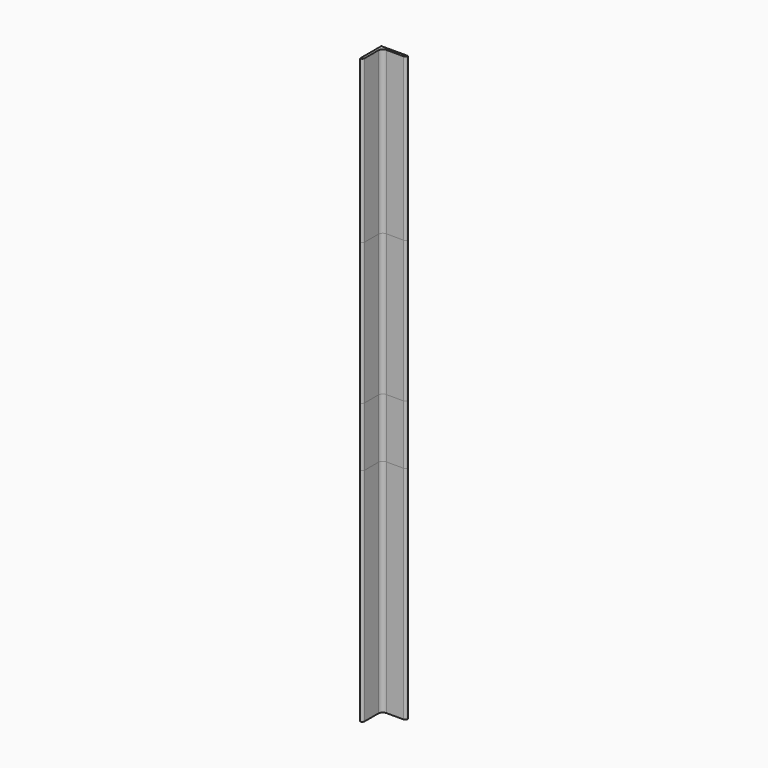
from build123d import *

# Parameters (mm, degrees)
F5_DEPTH = 660
F6_DEPTH = 477
F7_DEPTH = 317
F8_DEPTH = 157
F9_DEPTH = 250


with BuildPart() as f5:
    # F4 (on Top) → F5 (new body)
    with BuildSketch(Plane.XY):
        with BuildLine():
            Line((30, 0), (0, 0))
            Line((0, 0), (0, -30))
            Line((0, -30), (0.5, -30))
            ThreePointArc((0.5, -30), (2.267766953, -29.267766953), (3, -27.5))
            Line((3, -27.5), (3, -8))
            ThreePointArc((3, -8), (4.4644660941, -4.4644660941), (8, -3))
            Line((8, -3), (27.5, -3))
            ThreePointArc((27.5, -3), (29.267766953, -2.267766953), (30, -0.5))
            Line((30, -0.5), (30, 0))
        make_face()
    extrude(amount=F5_DEPTH)


with BuildPart() as f6:
    # F4 (on Top) → F6 (new body)
    with BuildSketch(Plane.XY):
        with BuildLine():
            Line((30, 0), (0, 0))
            Line((0, 0), (0, -30))
            Line((0, -30), (0.5, -30))
            ThreePointArc((0.5, -30), (2.267766953, -29.267766953), (3, -27.5))
            Line((3, -27.5), (3, -8))
            ThreePointArc((3, -8), (4.4644660941, -4.4644660941), (8, -3))
            Line((8, -3), (27.5, -3))
            ThreePointArc((27.5, -3), (29.267766953, -2.267766953), (30, -0.5))
            Line((30, -0.5), (30, 0))
        make_face()
    extrude(amount=F6_DEPTH)


with BuildPart() as f7:
    # F4 (on Top) → F7 (new body)
    with BuildSketch(Plane.XY):
        with BuildLine():
            Line((30, 0), (0, 0))
            Line((0, 0), (0, -30))
            Line((0, -30), (0.5, -30))
            ThreePointArc((0.5, -30), (2.267766953, -29.267766953), (3, -27.5))
            Line((3, -27.5), (3, -8))
            ThreePointArc((3, -8), (4.4644660941, -4.4644660941), (8, -3))
            Line((8, -3), (27.5, -3))
            ThreePointArc((27.5, -3), (29.267766953, -2.267766953), (30, -0.5))
            Line((30, -0.5), (30, 0))
        make_face()
    extrude(amount=F7_DEPTH)


with BuildPart() as f8:
    # F4 (on Top) → F8 (new body)
    with BuildSketch(Plane.XY):
        with BuildLine():
            Line((30, 0), (0, 0))
            Line((0, 0), (0, -30))
            Line((0, -30), (0.5, -30))
            ThreePointArc((0.5, -30), (2.267766953, -29.267766953), (3, -27.5))
            Line((3, -27.5), (3, -8))
            ThreePointArc((3, -8), (4.4644660941, -4.4644660941), (8, -3))
            Line((8, -3), (27.5, -3))
            ThreePointArc((27.5, -3), (29.267766953, -2.267766953), (30, -0.5))
            Line((30, -0.5), (30, 0))
        make_face()
    extrude(amount=F8_DEPTH)


with BuildPart() as f9:
    # F4 (on Top) → F9 (new body)
    with BuildSketch(Plane.XY):
        with BuildLine():
            Line((30, 0), (0, 0))
            Line((0, 0), (0, -30))
            Line((0, -30), (0.5, -30))
            ThreePointArc((0.5, -30), (2.267766953, -29.267766953), (3, -27.5))
            Line((3, -27.5), (3, -8))
            ThreePointArc((3, -8), (4.4644660941, -4.4644660941), (8, -3))
            Line((8, -3), (27.5, -3))
            ThreePointArc((27.5, -3), (29.267766953, -2.267766953), (30, -0.5))
            Line((30, -0.5), (30, 0))
        make_face()
    extrude(amount=F9_DEPTH)


solid = Compound([f5.part, f6.part, f7.part, f8.part, f9.part])
